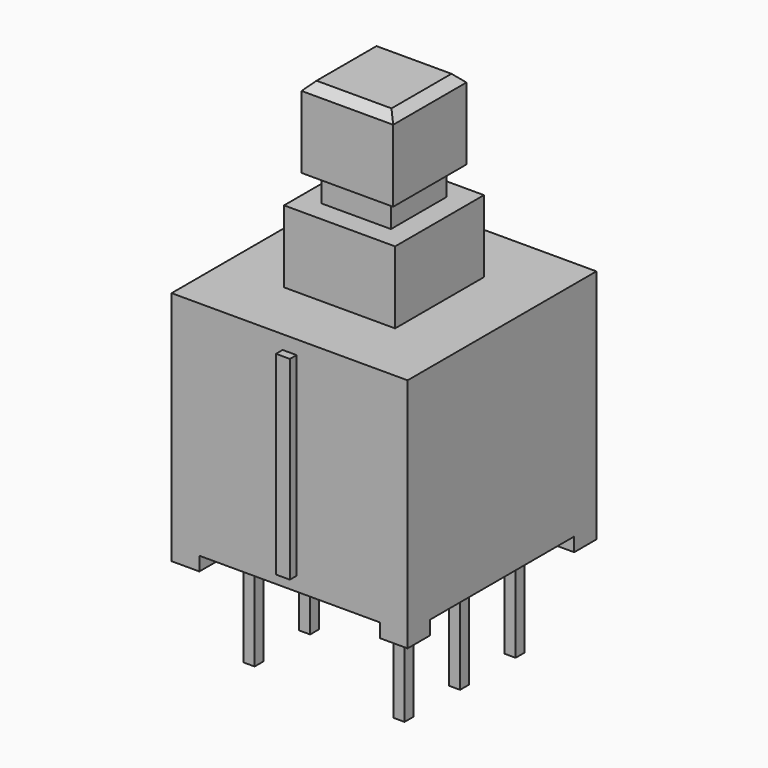
from build123d import *

# Parameters (mm, degrees)
F0_W          = 0.4
F0_H          = 0.4
F1_DEPTH      = 1
F1_DEPTH_BACK = 3.4
F3_START      = 0.5
F2_W          = 8.5
F2_H          = 8.5
F3_DEPTH      = 8
F4_W          = 1
F4_H          = 1
F5_DEPTH      = 0.5
F6_W          = 0.5
F6_H          = 7
F7_DEPTH      = 0.3
F8_R          = 0.5
F9_DEPTH      = 1.5
F10_SIZE      = 0.2
F11_W         = 4
F11_H         = 4
F12_DEPTH     = 2.6
F13_W         = 2.5
F13_H         = 2.5
F14_DEPTH     = 1
F15_W         = 3.3
F15_H         = 3.3
F16_DEPTH     = 2.9
F17_SIZE2     = 0.3
F17_SIZE      = 0.3


with BuildPart() as f1:
    # F0 (on Top) → F1 (new body, two sides)
    with BuildSketch(Plane.XY) as f1_sk:
        with Locations((-2.7, -2.5)):
            Rectangle(F0_W, F0_H)
    extrude(amount=F1_DEPTH)
    extrude(f1_sk.sketch, amount=-F1_DEPTH_BACK)


with BuildPart() as f1b:
    # F0 (on Top) → F1, piece 2 (new body, two sides)
    with BuildSketch(Plane.XY) as f1_2_sk:
        with Locations((-2.7, 0)):
            Rectangle(F0_W, F0_H)
    extrude(amount=F1_DEPTH)
    extrude(f1_2_sk.sketch, amount=-F1_DEPTH_BACK)


with BuildPart() as f1c:
    # F0 (on Top) → F1, piece 3 (new body, two sides)
    with BuildSketch(Plane.XY) as f1_3_sk:
        with Locations((-2.7, 2.5)):
            Rectangle(F0_W, F0_H)
    extrude(amount=F1_DEPTH)
    extrude(f1_3_sk.sketch, amount=-F1_DEPTH_BACK)


with BuildPart() as f1d:
    # F0 (on Top) → F1, piece 4 (new body, two sides)
    with BuildSketch(Plane.XY) as f1_4_sk:
        with Locations((2.7, 2.5)):
            Rectangle(F0_W, F0_H)
    extrude(amount=F1_DEPTH)
    extrude(f1_4_sk.sketch, amount=-F1_DEPTH_BACK)


with BuildPart() as f1e:
    # F0 (on Top) → F1, piece 5 (new body, two sides)
    with BuildSketch(Plane.XY) as f1_5_sk:
        with Locations((2.7, 0)):
            Rectangle(F0_W, F0_H)
    extrude(amount=F1_DEPTH)
    extrude(f1_5_sk.sketch, amount=-F1_DEPTH_BACK)


with BuildPart() as f1f:
    # F0 (on Top) → F1, piece 6 (new body, two sides)
    with BuildSketch(Plane.XY) as f1_6_sk:
        with Locations((2.7, -2.5)):
            Rectangle(F0_W, F0_H)
    extrude(amount=F1_DEPTH)
    extrude(f1_6_sk.sketch, amount=-F1_DEPTH_BACK)


with BuildPart() as f3:
    # F2 (on Top) → F3 (new body)
    with BuildSketch(Plane.XY.offset(F3_START)):
        Rectangle(F2_W, F2_H)
    extrude(amount=F3_DEPTH)

    # F4 (on face) → F5 (join)
    with BuildSketch(Plane(origin=(0, 0, 0.5), x_dir=(1, 0, 0), z_dir=(0, 0, -1))):
        with Locations((-3.75, 3.75)):
            Rectangle(F4_W, F4_H)
        with Locations((3.75, 3.75)):
            Rectangle(F4_W, F4_H)
        with Locations((3.75, -3.75)):
            Rectangle(F4_W, F4_H)
        with Locations((-3.75, -3.75)):
            Rectangle(F4_W, F4_H)
    extrude(amount=F5_DEPTH)

    # F6 (on face) → F7 (join)
    with BuildSketch(Plane.XZ.offset(4.25)):
        with Locations((0, 4.5)):
            Rectangle(F6_W, F6_H)
    extrude(amount=F7_DEPTH)

    # F8 (on face) → F9 (join)
    with BuildSketch(Plane(origin=(0, 0, 0.5), x_dir=(1, 0, 0), z_dir=(0, 0, -1))):
        with Locations((0, -3.25)):
            Circle(F8_R)
    extrude(amount=F9_DEPTH)

    # F10
    f10_edges = [f3.edges().sort_by_distance(p)[0] for p in [
        (-0.5, 3.25, -1),
    ]]
    chamfer(f10_edges, length=F10_SIZE)


with BuildPart() as f12:
    # F11 (on face) → F12 (new body)
    with BuildSketch(Plane.XY.offset(8.5)):
        Rectangle(F11_W, F11_H)
    extrude(amount=F12_DEPTH)

    # F13 (on face) → F14 (join)
    with BuildSketch(Plane.XY.offset(11.1)):
        Rectangle(F13_W, F13_H)
    extrude(amount=F14_DEPTH)

    # F15 (on face) → F16 (join)
    with BuildSketch(Plane.XY.offset(12.1)):
        Rectangle(F15_W, F15_H)
    extrude(amount=F16_DEPTH)

    # F17
    f17_edges = [f12.edges().sort_by_distance(p)[0] for p in [
        (-1.65, 0, 15),
        (0, -1.65, 15),
        (1.65, 0, 15),
        (0, 1.65, 15),
    ]]
    chamfer(f17_edges, length=F17_SIZE, length2=F17_SIZE2)


solid = Compound([f1.part, f1b.part, f1c.part, f1d.part, f1e.part, f1f.part, f3.part, f12.part])
